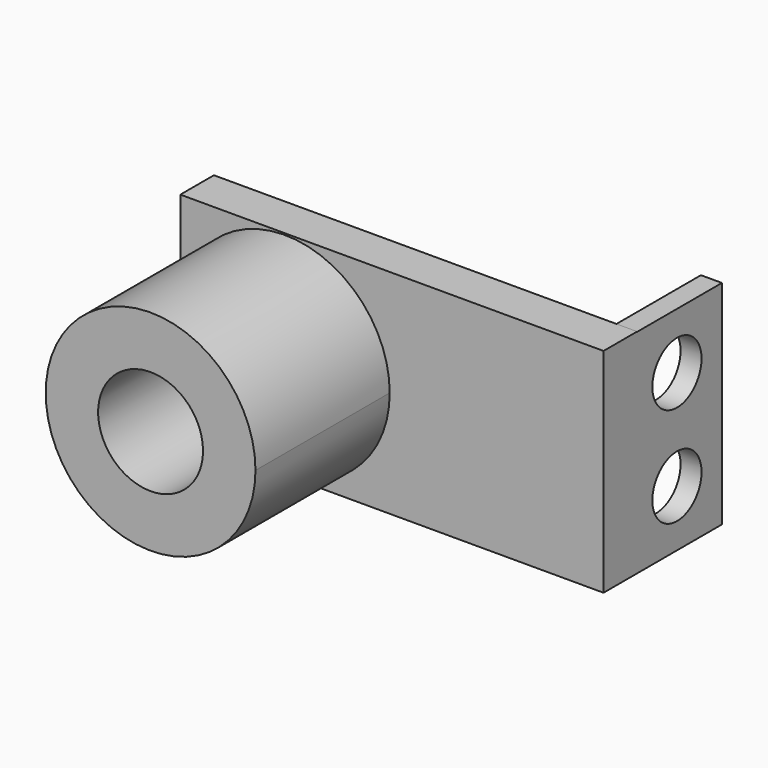
from build123d import *

# Parameters (mm, degrees)
F0_R     = 31.75
F1_DEPTH = 25.4
F2_DEPTH = 127
F3_W     = 64.183906
F3_H     = 128.724985
F3_R     = 18.609461
F4_DEPTH = 12.7


with BuildPart() as f1:
    # F0 (on Front) → F1 (new body)
    with BuildSketch(Plane.XZ):
        with BuildLine():
            ThreePointArc((-1.337954, 0), (-62.112969, 63.441504), (-128.104079, 5.444951))
            Line((-128.104079, 5.444951), (-128.104079, -5.444951))
            ThreePointArc((-128.104079, -5.444951), (-62.112969, -63.441504), (-1.337954, 0))
        make_face()
        with Locations((-64.837954, 0)):
            Circle(F0_R, mode=Mode.SUBTRACT)
        with BuildLine():
            Line((128.104079, 64.444997), (-128.104079, 64.444997))
            Line((-128.104079, 64.444997), (-128.104079, 5.444951))
            ThreePointArc((-128.104079, 5.444951), (-62.112969, 63.441504), (-1.337954, 0))
            ThreePointArc((-1.337954, 0), (-62.112969, -63.441504), (-128.104079, -5.444951))
            Line((-128.104079, -5.444951), (-128.104079, -64.444997))
            Line((-128.104079, -64.444997), (128.104079, -64.444997))
            Line((128.104079, -64.444997), (128.104079, 64.444997))
        make_face()
    extrude(amount=F1_DEPTH)

    # F0 (on Front) → F2 (join)
    with BuildSketch(Plane.XZ):
        with BuildLine():
            ThreePointArc((-1.337954, 0), (-62.112969, 63.441504), (-128.104079, 5.444951))
            Line((-128.104079, 5.444951), (-128.104079, -5.444951))
            ThreePointArc((-128.104079, -5.444951), (-62.112969, -63.441504), (-1.337954, 0))
        make_face()
        with Locations((-64.837954, 0)):
            Circle(F0_R, mode=Mode.SUBTRACT)
    extrude(amount=F2_DEPTH)

    # F3 (on face) → F4 (join)
    with BuildSketch(Plane.YZ.offset(128.104079)):
        with Locations((32.091953, -0.082504)):
            Rectangle(F3_W, F3_H)
        with Locations((30.153323, -30.249406)):
            Circle(F3_R, mode=Mode.SUBTRACT)
        with Locations((30.153323, 30.249406)):
            Circle(F3_R, mode=Mode.SUBTRACT)
    extrude(amount=-F4_DEPTH)


solid = f1.part
